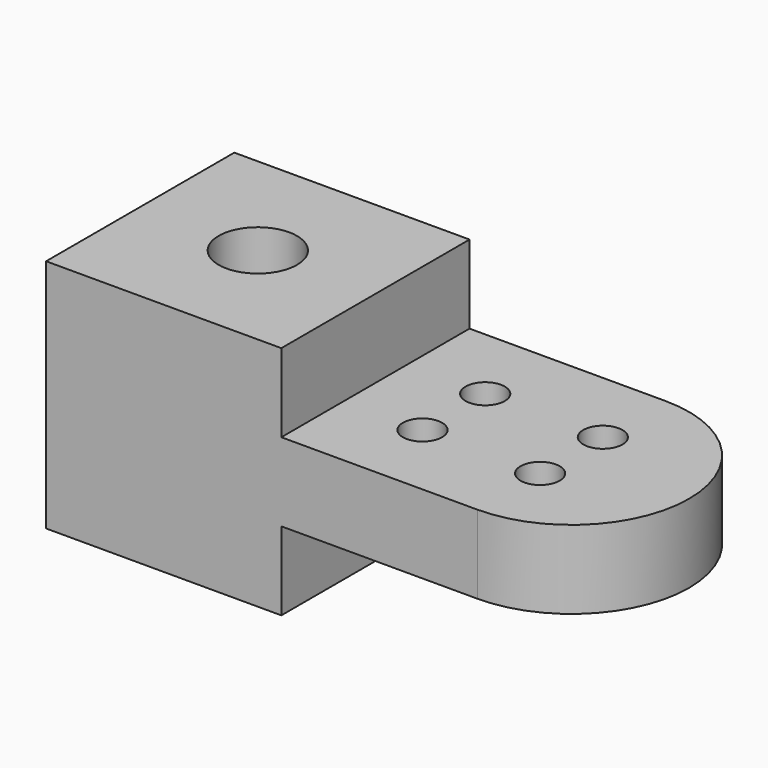
from build123d import *

# Parameters (mm, degrees)
F0_W     = 38.1
F0_H     = 38.1
F0_R     = 6.35
F1_DEPTH = 19.05
F2_W     = 38.1
F2_H     = 12.7
F3_DEPTH = 31.75
F5_DEPTH = 12.7
F6_R     = 3.175
F7_DEPTH = 25.4


with BuildPart() as f1:
    # F0 (on Top) → F1 (new body, symmetric)
    with BuildSketch(Plane.XY):
        with Locations((19.05, 0)):
            Rectangle(F0_W, F0_H)
        with Locations((19.05, 0)):
            Circle(F0_R, mode=Mode.SUBTRACT)
    extrude(amount=F1_DEPTH, both=True)

    # F2 (on face) → F3 (join)
    with BuildSketch(Plane.YZ.offset(38.1)):
        Rectangle(F2_W, F2_H)
    extrude(amount=F3_DEPTH)

    # F4 (on face) → F5 (join)
    with BuildSketch(Plane.XY.offset(6.35)):
        with BuildLine():
            Line((69.85, 19.05), (69.85, -19.05))
            ThreePointArc((69.85, -19.05), (88.9, 0), (69.85, 19.05))
        make_face()
    extrude(amount=-F5_DEPTH)

    # F6 (on face) → F7 (cut)
    with BuildSketch(Plane.XY.offset(6.35)):
        with Locations((50.8, 6.35)):
            Circle(F6_R)
        with Locations((50.8, -6.35)):
            Circle(F6_R)
        with Locations((69.85, 6.35)):
            Circle(F6_R)
        with Locations((69.85, -6.35)):
            Circle(F6_R)
    extrude(amount=-F7_DEPTH, mode=Mode.SUBTRACT)


solid = f1.part
